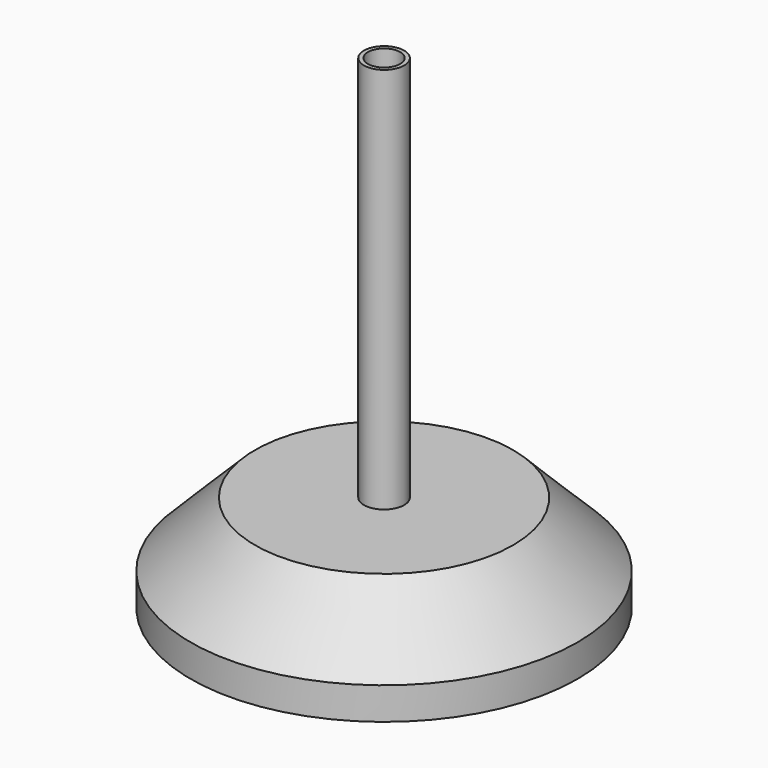
from build123d import *

# Parameters (mm, degrees)
F0_R     = 76.2
F2_R     = 50.8
F4_DEPTH = 12.7
F5_R     = 6.35
F8_W     = 1.5875
F8_H     = 152.4


with BuildPart() as f3:
    # F0 (on Top) → F3 section 0
    with BuildSketch(Plane.XY):
        Circle(F0_R)
    # F2 (on offset) → F3 section 1
    with BuildSketch(Plane.XY.offset(25.4)):
        Circle(F2_R)
    loft()

    # F0 (on Top) → F4 (join)
    with BuildSketch(Plane.XY):
        Circle(F0_R)
    extrude(amount=-F4_DEPTH)

    # F7: sweep along a path in F6
    with BuildLine(Plane.XZ) as f7_path:
        Line((0, 25.4), (0, 12.7))
        ThreePointArc((0, 12.7), (-3.7197438789, 3.7197438789), (-12.7, 0))
        Line((-12.7, 0), (-82.2157882963, 0))
    # F5 (on face) → F7 (sweep, cut)
    with BuildSketch(Plane.XY.offset(25.4)):
        Circle(F5_R)
    sweep(path=f7_path.line, mode=Mode.SUBTRACT)

    # F8 (on Front) → F9 (revolve)
    with BuildSketch(Plane.XZ):
        with Locations((7.14375, 101.6)):
            Rectangle(F8_W, F8_H)
    revolve(axis=Axis((0, 0, 88.9), (0, 0, 1)))


solid = f3.part
